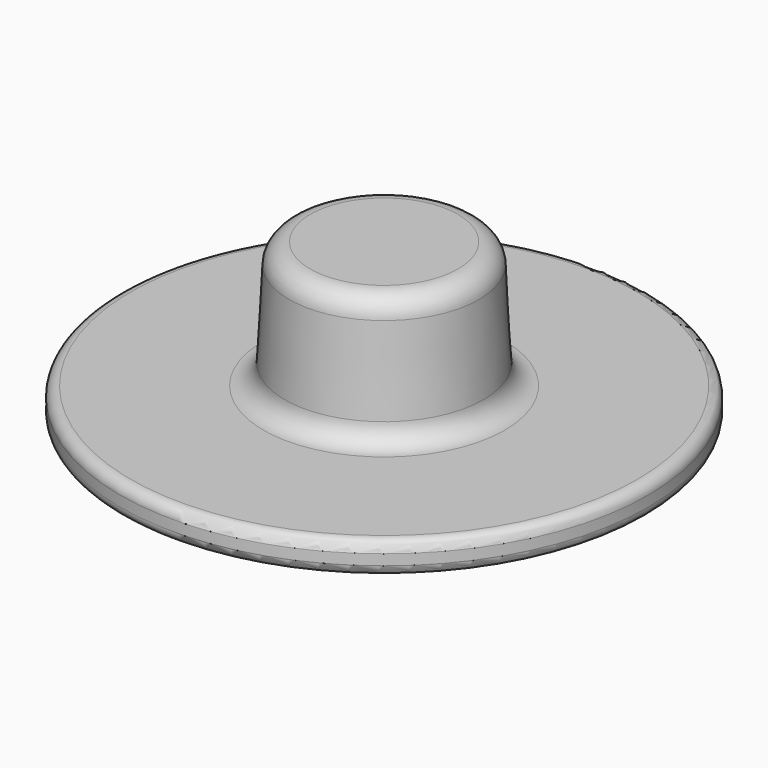
from build123d import *

# Parameters (mm, degrees)
HOLE_D           = 6
HOLE_DEPTH       = 6.5
HOLE_CSINK_D     = 6.5
HOLE_CSINK_ANGLE = 90


with BuildPart() as part:
    # Sketch → Revolution (revolve)
    with BuildSketch(Plane.XZ):
        with BuildLine():
            Line((12.5, 1), (12.5, 0.5))
            ThreePointArc((12, 0), (12.353553, 0.146447), (12.5, 0.5))
            Line((12, 0), (0, 0))
            Line((0, 7.5), (0, 0))
            Line((3.5, 7.5), (0, 7.5))
            ThreePointArc((4.49863, 6.552336), (4.188355, 7.225374), (3.5, 7.5))
            Line((4.49863, 6.552336), (4.713746, 2.447664))
            ThreePointArc((4.713746, 2.447664), (5.024021, 1.774626), (5.712376, 1.5))
            Line((5.712376, 1.5), (12, 1.5))
            ThreePointArc((12.5, 1), (12.353553, 1.353553), (12, 1.5))
        make_face()
    revolve(axis=Axis((0, 0, 0), (0, 0, 1)))

    # Hole
    with Locations(Plane(origin=(0, 0, 0), x_dir=(1, 0, 0), z_dir=(0, 0, -1))):
        with Locations((0, 0)):
            CounterSinkHole(HOLE_D / 2, HOLE_CSINK_D / 2, depth=HOLE_DEPTH, counter_sink_angle=HOLE_CSINK_ANGLE)


solid = part.part
